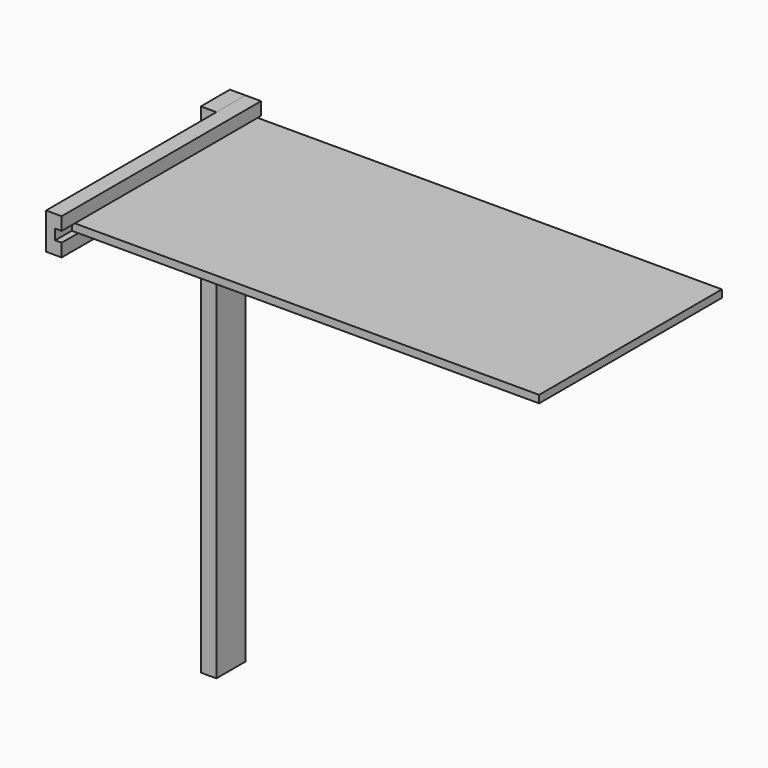
from build123d import *

# Parameters (mm, degrees)
F1_DEPTH = 609.6
F2_DEPTH = 88.9
F0_W     = 38.1
F0_H     = 88.9
F3_DEPTH = 88.9
F4_DEPTH = 558.8


with BuildPart() as f1:
    # F0 (on Front) → F1 (new body)
    with BuildSketch(Plane.XZ):
        Polygon((-21.804077, 2367.138244), (-59.904077, 2367.138244), (-59.904077, 2278.238244), (-21.804077, 2278.238244), (-21.804077, 2309.988244), (-37.690178, 2309.988244), (-37.690178, 2328.403244), (-37.690178, 2335.388244), (-21.804077, 2335.388244), (-21.804077, 2348.088244), align=None)
    extrude(amount=F1_DEPTH)


with BuildPart() as f2:
    # F0 (on Front) → F2 (new body)
    with BuildSketch(Plane.XZ):
        Polygon((-59.904077, 2367.138244), (-98.004077, 2367.138244), (-98.004077, 1147.938244), (-59.904077, 1147.938244), (-59.904077, 2189.338244), (-59.904077, 2278.238244), align=None)
    extrude(amount=F2_DEPTH)


with BuildPart() as f3:
    # F0 (on Front) → F3 (new body)
    with BuildSketch(Plane.XZ):
        with Locations((-40.854077, 2233.788244)):
            Rectangle(F0_W, F0_H)
    extrude(amount=F3_DEPTH)


with BuildPart() as f4:
    # F0 (on Front) → F4 (new body)
    with BuildSketch(Plane.XZ):
        Polygon((-21.804077, 2322.688244), (-21.804077, 2309.988244), (1105.309822, 2309.988244), (1105.309822, 2328.403244), (-21.804077, 2328.403244), align=None)
        Polygon((-37.690178, 2309.988244), (-21.804077, 2309.988244), (-21.804077, 2322.688244), (-21.804077, 2328.403244), (-37.690178, 2328.403244), align=None)
    extrude(amount=F4_DEPTH)


solid = Compound([f1.part, f2.part, f3.part, f4.part])
